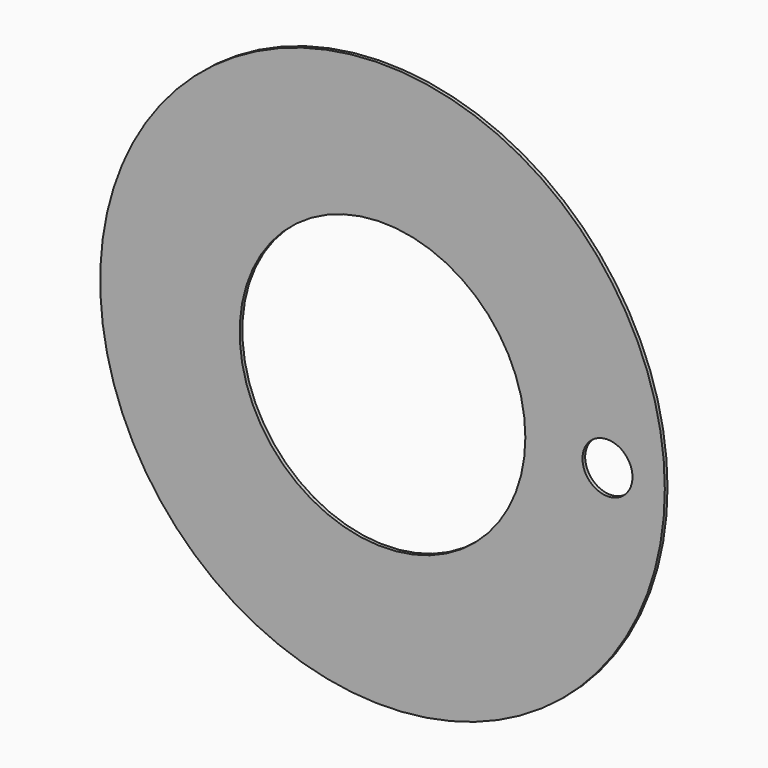
from build123d import *

# Parameters (mm, degrees)
F0_R     = 502
F0_R_2   = 254
F0_R_3   = 44.45
F1_DEPTH = 6


with BuildPart() as f1:
    # F0 (on Front) → F1 (new body)
    with BuildSketch(Plane.XZ):
        Circle(F0_R)
        Circle(F0_R_2, mode=Mode.SUBTRACT)
        with Locations((400, 0)):
            Circle(F0_R_3, mode=Mode.SUBTRACT)
    extrude(amount=-F1_DEPTH)


solid = f1.part
